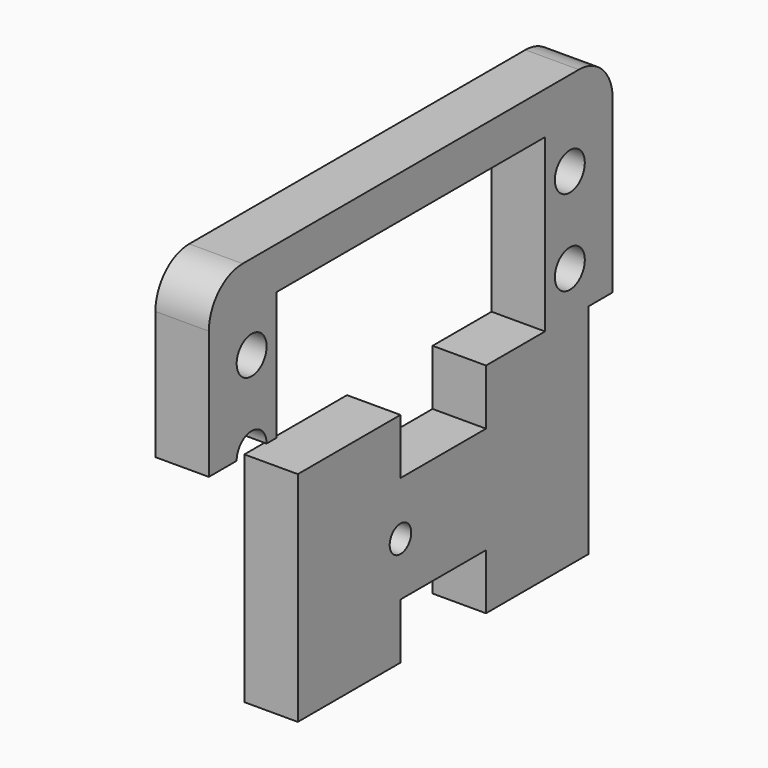
from build123d import *

# Parameters (mm, degrees)
F0_R     = 1.6002
F0_R_2   = 2.2225
F1_DEPTH = 6.35


with BuildPart() as f1:
    # F0 (on Right) → F1 (new body)
    with BuildSketch(Plane.YZ):
        with BuildLine():
            Line((6.35, 0), (-6.35, 0))
            Line((-6.35, 0), (-6.35, 6.604))
            Line((-6.35, 6.604), (-21.59, 6.604))
            Line((-21.59, 6.604), (-21.59, -19.304))
            Line((-21.59, -19.304), (-6.35, -19.304))
            Line((-6.35, -19.304), (-6.35, -12.7))
            Line((-6.35, -12.7), (6.35, -12.7))
            Line((6.35, -12.7), (6.35, -19.304))
            Line((6.35, -19.304), (21.59, -19.304))
            Line((21.59, -19.304), (21.59, 6.604))
            Line((21.59, 6.604), (25.146, 6.604))
            Line((25.146, 6.604), (25.146, 26.924))
            ThreePointArc((25.146, 26.924), (23.676701, 30.471201), (20.1295, 31.9405))
            Line((20.1295, 31.9405), (-29.7815, 31.9405))
            ThreePointArc((-29.7815, 31.9405), (-33.328701, 30.471201), (-34.798, 26.924))
            Line((-34.798, 26.924), (-34.798, 11.684))
            Line((-34.798, 11.684), (-30.6705, 11.684))
            ThreePointArc((-30.6705, 11.684), (-28.448, 13.9065), (-26.2255, 11.684))
            Line((-26.2255, 11.684), (-24.765, 11.684))
            Line((-24.765, 11.684), (-24.765, 26.924))
            Line((-24.765, 26.924), (15.113, 26.924))
            Line((15.113, 26.924), (15.113, 6.604))
            Line((15.113, 6.604), (6.35, 6.604))
            Line((6.35, 6.604), (6.35, 0))
        make_face()
        with Locations((-6.35, -6.35)):
            Circle(F0_R, mode=Mode.SUBTRACT)
        with Locations((-28.448, 21.844)):
            Circle(F0_R_2, mode=Mode.SUBTRACT)
        with Locations((18.796, 11.684)):
            Circle(F0_R_2, mode=Mode.SUBTRACT)
        with Locations((18.796, 21.844)):
            Circle(F0_R_2, mode=Mode.SUBTRACT)
    extrude(amount=F1_DEPTH)


solid = f1.part
